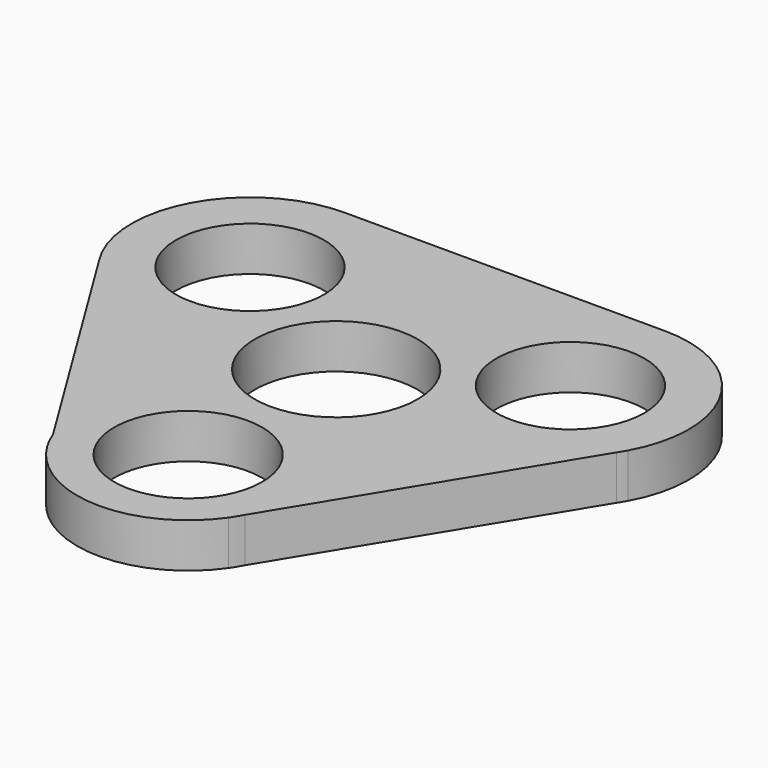
from build123d import *

# Parameters (mm, degrees)
F0_R     = 9.995
F0_R_2   = 11
F1_DEPTH = 6


with BuildPart() as f1:
    # F0 (on Top) → F1 (new body)
    with BuildSketch(Plane.XY):
        with BuildLine():
            Line((21.650635, 28.5), (-21.650635, 28.5))
            ThreePointArc((-21.650635, 28.5), (-35.706766, 20.143637), (-35.080631, 3.803148))
            Line((-35.080631, 3.803148), (-14.042129, -30.274336))
            Line((-14.042129, -30.274336), (-11.007104, -35.190371))
            ThreePointArc((-11.007104, -35.190371), (1.038184, -39.964029), (12.308863, -33.572741))
            Line((12.308863, -33.572741), (13.265024, -32.002795))
            Line((13.265024, -32.002795), (34.966161, 3.62888))
            Line((34.966161, 3.62888), (35.642692, 4.739694))
            ThreePointArc((35.642692, 4.739694), (35.437674, 20.618962), (21.650635, 28.5))
        make_face()
        with Locations((0, -25)):
            Circle(F0_R, mode=Mode.SUBTRACT)
        with BuildLine():
            ThreePointArc((-27.949657, 4.739694), (-16.018657, 20.757169), (-26.576567, 3.803148))
            Line((-26.576567, 3.803148), (-27.949657, 4.739694))
        make_face(mode=Mode.SUBTRACT)
        Circle(F0_R_2, mode=Mode.SUBTRACT)
        with Locations((21.650635, 12.5)):
            Circle(F0_R, mode=Mode.SUBTRACT)
        with BuildLine():
            Line((-11.007104, -35.190371), (-14.042129, -30.274336))
            ThreePointArc((-14.042129, -30.274336), (-12.763536, -32.879856), (-11.007104, -35.190371))
        make_face()
        with BuildLine():
            ThreePointArc((34.966161, 3.62888), (35.315718, 4.17741), (35.642692, 4.739694))
            Line((35.642692, 4.739694), (34.966161, 3.62888))
        make_face()
        with BuildLine():
            Line((13.265024, -32.002795), (12.308863, -33.572741))
            ThreePointArc((12.308863, -33.572741), (12.811015, -32.802428), (13.265024, -32.002795))
        make_face()
    extrude(amount=F1_DEPTH)


solid = f1.part
